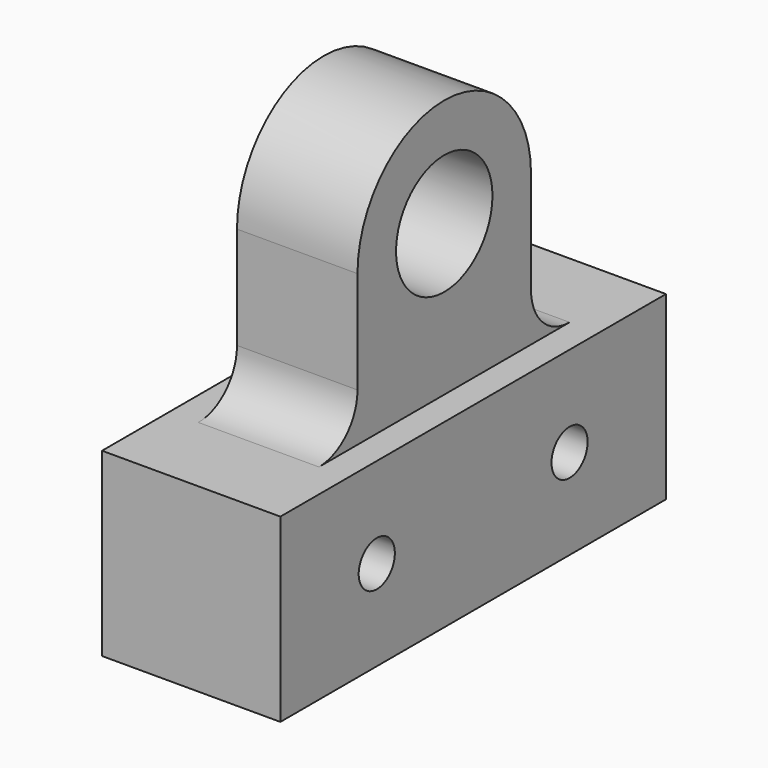
from build123d import *

# Parameters (mm, degrees)
F0_W     = 25.4
F0_H     = 9.525
F1_DEPTH = 4.699
F3_DEPTH = 3.175
F4_R     = 1.190625
F5_DEPTH = 9.399
F6_R     = 2.54


with BuildPart() as f1:
    # F0 (on Right) → F1 (new body, symmetric)
    with BuildSketch(Plane.YZ):
        with Locations((0, 4.7625)):
            Rectangle(F0_W, F0_H)
    extrude(amount=F1_DEPTH, both=True)

    # F2 (on Right) → F3 (join, symmetric)
    with BuildSketch(Plane.YZ):
        with BuildLine():
            Line((3.175, 17.4625), (5.715, 17.4625))
            ThreePointArc((5.715, 17.4625), (0, 23.1775), (-5.715, 17.4625))
            Line((-5.715, 17.4625), (-3.175, 17.4625))
            ThreePointArc((-3.175, 17.4625), (0, 20.6375), (3.175, 17.4625))
        make_face()
        with BuildLine():
            Line((5.715, 0), (5.715, 17.4625))
            ThreePointArc((5.715, 17.4625), (0, 11.7475), (-5.715, 17.4625))
            Line((-5.715, 17.4625), (-5.715, 0))
            Line((-5.715, 0), (5.715, 0))
        make_face()
        with BuildLine():
            ThreePointArc((-5.715, 17.4625), (0, 11.7475), (5.715, 17.4625))
            Line((5.715, 17.4625), (3.175, 17.4625))
            ThreePointArc((3.175, 17.4625), (0, 14.2875), (-3.175, 17.4625))
            Line((-3.175, 17.4625), (-5.715, 17.4625))
        make_face()
    extrude(amount=F3_DEPTH, both=True)

    # F4 (on face) → F5 (cut, through all)
    with BuildSketch(Plane.YZ.offset(4.699)):
        with Locations((-6.35, 4.7625)):
            Circle(F4_R)
        with Locations((6.35, 4.7625)):
            Circle(F4_R)
    extrude(amount=-F5_DEPTH, mode=Mode.SUBTRACT)

    # F6
    f6_edges = [f1.edges().sort_by_distance(p)[0] for p in [
        (0, 5.715, 9.525),
        (0, -5.715, 9.525),
    ]]
    fillet(f6_edges, radius=F6_R)


solid = f1.part
